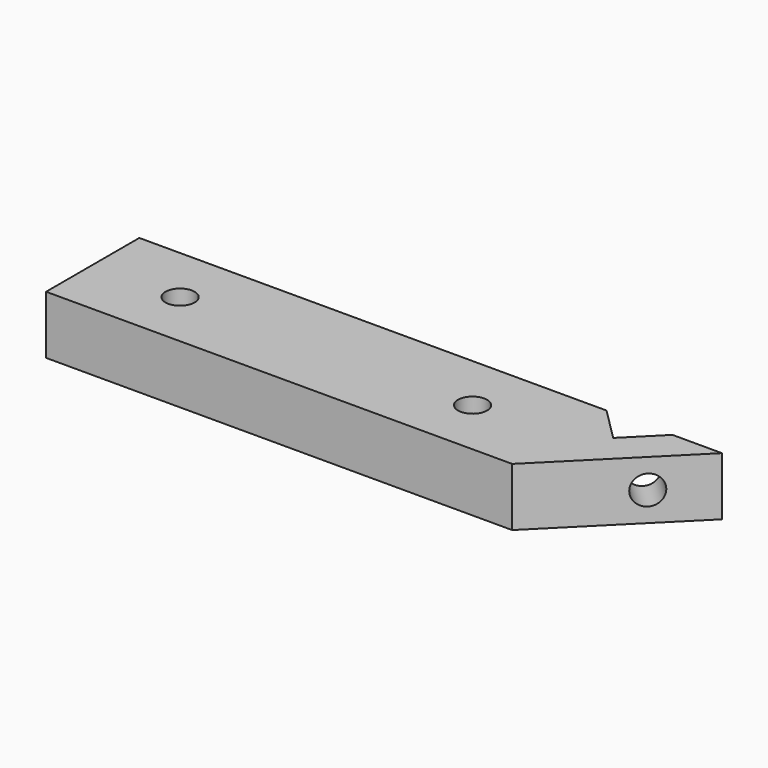
from build123d import *

# Parameters (mm, degrees)
F0_R     = 3.175
F1_DEPTH = 12.7
F2_R     = 3.175
F3_DEPTH = 16.7894


with BuildPart() as f1:
    # F0 (on Top) → F1 (new body)
    with BuildSketch(Plane.XY):
        Polygon((38.355283, 12.7), (-63.5, 12.7), (-63.5, -12.7), (38.1, -12.7), (63.5, 12.7), (52.723693, 12.7), (45.539488, 5.515795), align=None)
        with Locations((-44.45, 0)):
            Circle(F0_R, mode=Mode.SUBTRACT)
        with Locations((19.304, 0)):
            Circle(F0_R, mode=Mode.SUBTRACT)
    extrude(amount=F1_DEPTH)

    # F2 (on face) → F3 (cut)
    with BuildSketch(Plane(origin=(20.011846, -20.011846, 0), x_dir=(-0.707107, -0.707107, 0), z_dir=(-0.707107, 0.707107, 0))):
        with Locations((-41.181537, 6.35)):
            Circle(F2_R)
    extrude(amount=-F3_DEPTH, mode=Mode.SUBTRACT)


solid = f1.part
